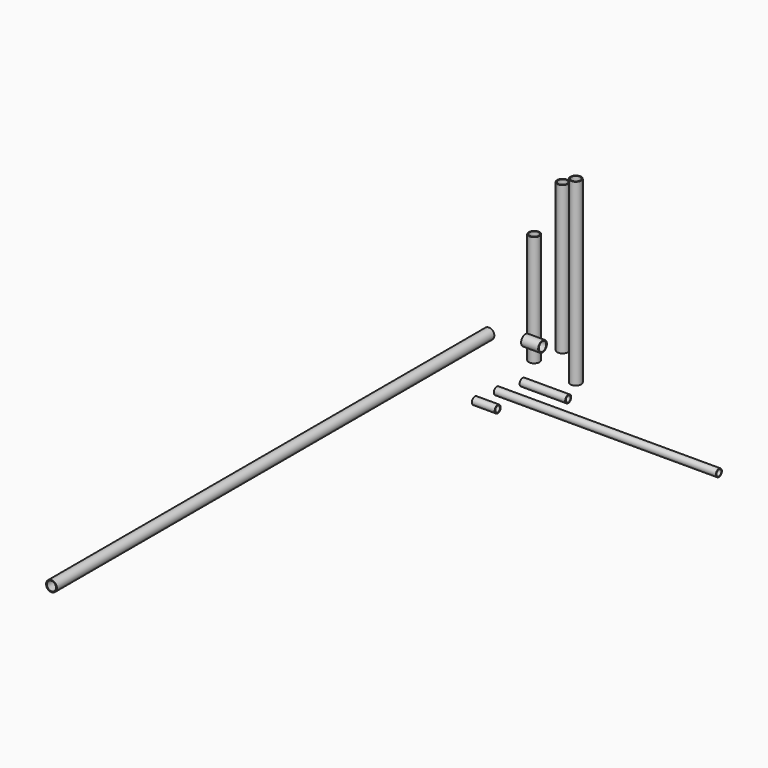
from build123d import *

# Parameters (mm, degrees)
F0_R      = 24.13
F0_R_2    = 20.447
F1_DEPTH  = 800.1
F2_R      = 24.13
F2_R_2    = 20.447
F3_DEPTH  = 660.4
F4_R      = 24.13
F4_R_2    = 20.447
F5_DEPTH  = 495.3
F6_R      = 24.13
F6_R_2    = 20.447
F7_DEPTH  = 76.2
F8_R      = 16.7005
F8_R_2    = 13.3223
F9_DEPTH  = 203.2
F10_R     = 16.7005
F10_R_2   = 13.3223
F11_DEPTH = 990.6
F12_R     = 16.7005
F12_R_2   = 13.3223
F13_DEPTH = 101.6
F14_R     = 24.13
F14_R_2   = 20.447
F15_DEPTH = 2438.4


with BuildPart() as f1:
    # F0 (on Top) → F1 (new body)
    with BuildSketch(Plane.XY):
        with Locations((17.046805, -18.971443)):
            Circle(F0_R)
        with Locations((17.046805, -18.971443)):
            Circle(F0_R_2, mode=Mode.SUBTRACT)
    extrude(amount=F1_DEPTH)


with BuildPart() as f3:
    # F2 (on Top) → F3 (new body)
    with BuildSketch(Plane.XY):
        with Locations((-170.690179, 141.894937)):
            Circle(F2_R)
        with Locations((-170.690179, 141.894937)):
            Circle(F2_R_2, mode=Mode.SUBTRACT)
    extrude(amount=F3_DEPTH)


with BuildPart() as f5:
    # F4 (on Top) → F5 (new body)
    with BuildSketch(Plane.XY):
        with Locations((-201.116279, 21.514883)):
            Circle(F4_R)
        with Locations((-201.116279, 21.514883)):
            Circle(F4_R_2, mode=Mode.SUBTRACT)
    extrude(amount=F5_DEPTH)


with BuildPart() as f7:
    # F6 (on Right) → F7 (new body)
    with BuildSketch(Plane.YZ):
        with Locations((-278.591126, 266.236752)):
            Circle(F6_R)
        with Locations((-278.591126, 266.236752)):
            Circle(F6_R_2, mode=Mode.SUBTRACT)
    extrude(amount=F7_DEPTH)


with BuildPart() as f9:
    # F8 (on Right) → F9 (new body)
    with BuildSketch(Plane.YZ):
        with Locations((-294.158101, 107.74947)):
            Circle(F8_R)
        with Locations((-294.158101, 107.74947)):
            Circle(F8_R_2, mode=Mode.SUBTRACT)
    extrude(amount=F9_DEPTH)


with BuildPart() as f11:
    # F10 (on Right) → F11 (new body)
    with BuildSketch(Plane.YZ):
        with Locations((-438.307941, 132.241964)):
            Circle(F10_R)
        with Locations((-438.307941, 132.241964)):
            Circle(F10_R_2, mode=Mode.SUBTRACT)
    extrude(amount=F11_DEPTH)


with BuildPart() as f13:
    # F12 (on Right) → F13 (new body)
    with BuildSketch(Plane.YZ):
        with Locations((-560.229719, 143.115029)):
            Circle(F12_R)
        with Locations((-560.229719, 143.115029)):
            Circle(F12_R_2, mode=Mode.SUBTRACT)
    extrude(amount=F13_DEPTH)


with BuildPart() as f15:
    # F14 (on Front) → F15 (new body)
    with BuildSketch(Plane.XZ):
        with Locations((-385.641962, 53.174328)):
            Circle(F14_R)
        with Locations((-385.641962, 53.174328)):
            Circle(F14_R_2, mode=Mode.SUBTRACT)
    extrude(amount=F15_DEPTH)


solid = Compound([f1.part, f3.part, f5.part, f7.part, f9.part, f11.part, f13.part, f15.part])
